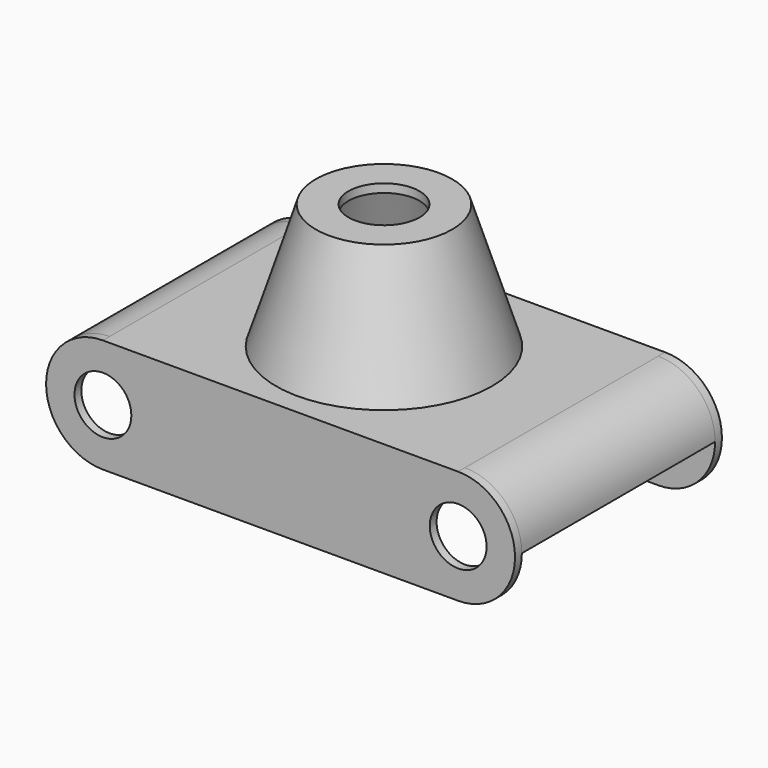
from build123d import *

# Parameters (mm, degrees)
F0_W      = 125
F0_H      = 40
F1_DEPTH  = 3
F2_W      = 125
F2_H      = 3
F3_DEPTH  = 85
F4_W      = 125
F4_H      = 40
F5_DEPTH  = 3
F6_R      = 35
F7_DEPTH  = 25
F10_R     = 24
F8_R      = 38
F12_R     = 12.5
F13_DEPTH = 70.6
F16_R     = 18
F14_R     = 35
F18_W     = 70
F18_H     = 3
F19_DEPTH = 85
F20_W     = 60
F20_H     = 60
F21_DEPTH = 15.5
F22_W     = 3
F22_H     = 85
F23_DEPTH = 26
F24_R     = 5
F25_DEPTH = 9.5
F26_R     = 10
F27_DEPTH = 25


with BuildPart() as f1:
    # F0 (on Front) → F1 (new body)
    with BuildSketch(Plane.XZ):
        Rectangle(F0_W, F0_H)
        with BuildLine():
            ThreePointArc((62.5, -20), (82.5, 0), (62.5, 20))
            Line((62.5, 20), (62.5, -20))
        make_face()
        with BuildLine():
            Line((-62.5, -20), (-62.5, 20))
            ThreePointArc((-62.5, 20), (-82.5, 0), (-62.5, -20))
        make_face()
    extrude(amount=F1_DEPTH)

    # F2 (on face) → F3 (join)
    with BuildSketch(Plane.XZ.offset(3)):
        with Locations((0, 18.5)):
            Rectangle(F2_W, F2_H)
        with BuildLine():
            Line((-62.5, 17), (-62.5, 20))
            ThreePointArc((-62.5, 20), (-76.6421356237, 14.1421356237), (-82.5, 0))
            Line((-82.5, 0), (-79.5, 0))
            ThreePointArc((-79.5, 0), (-74.5208152802, 12.0208152802), (-62.5, 17))
        make_face()
        with BuildLine():
            ThreePointArc((82.5, 0), (76.6421356237, 14.1421356237), (62.5, 20))
            Line((62.5, 20), (62.5, 17))
            ThreePointArc((62.5, 17), (74.5208152802, 12.0208152802), (79.5, 0))
            Line((79.5, 0), (82.5, 0))
        make_face()
    extrude(amount=F3_DEPTH)

    # F4 (on face) → F5 (join)
    with BuildSketch(Plane.XZ.offset(88)):
        Rectangle(F4_W, F4_H)
        with BuildLine():
            Line((-62.5, -20), (-62.5, 20))
            ThreePointArc((-62.5, 20), (-82.5, 0), (-62.5, -20))
        make_face()
        with BuildLine():
            ThreePointArc((62.5, -20), (82.5, 0), (62.5, 20))
            Line((62.5, 20), (62.5, -20))
        make_face()
    extrude(amount=F5_DEPTH)

    # F6 (on face) → F7 (cut)
    with BuildSketch(Plane(origin=(0, 0, 17), x_dir=(1, 0, 0), z_dir=(0, 0, -1))):
        with Locations((0, 45.5)):
            Circle(F6_R)
    extrude(amount=-F7_DEPTH, mode=Mode.SUBTRACT)

    # F10 (on offset) → F11 section 0
    with BuildSketch(Plane.XY.offset(64)):
        with Locations((0, -45.5)):
            Circle(F10_R)
    # F8 (on face) → F11 section 1
    with BuildSketch(Plane.XY.offset(20)):
        with Locations((0, -45.5)):
            Circle(F8_R)
    loft()

    # F12 (on face) → F13 (cut)
    with BuildSketch(Plane.XY.offset(64)):
        with Locations((0, -45.5)):
            Circle(F12_R)
    extrude(amount=-F13_DEPTH, mode=Mode.SUBTRACT)

    # F16 (on offset) → F17 section 0
    with BuildSketch(Plane.XY.offset(61)):
        with Locations((0, -45.5)):
            Circle(F16_R)
    # F14 (on face) → F17 section 1
    with BuildSketch(Plane.XY.offset(20)):
        with Locations((0, -45.5)):
            Circle(F14_R)
    loft(mode=Mode.SUBTRACT)

    # F18 (on face) → F19 (join)
    with BuildSketch(Plane.XZ.offset(3)):
        with Locations((0, -4.5)):
            Rectangle(F18_W, F18_H)
    extrude(amount=F19_DEPTH)

    # F20 (on face) → F21 (cut)
    with BuildSketch(Plane(origin=(0, 0, -6), x_dir=(1, 0, 0), z_dir=(0, 0, -1))):
        with Locations((0, 45.5)):
            Rectangle(F20_W, F20_H)
    extrude(amount=-F21_DEPTH, mode=Mode.SUBTRACT)

    # F22 (on face) → F23 (join)
    with BuildSketch(Plane(origin=(0, 0, -6), x_dir=(1, 0, 0), z_dir=(0, 0, -1))):
        with Locations((-33.5, 45.5)):
            Rectangle(F22_W, F22_H)
        with Locations((33.5, 45.5)):
            Rectangle(F22_W, F22_H)
    extrude(amount=-F23_DEPTH)

    # F24 (on face) → F25 (join)
    with BuildSketch(Plane.XZ.offset(3)):
        with Locations((-62.5, 0)):
            Circle(F24_R)
        with Locations((62.5, 0)):
            Circle(F24_R)
    extrude(amount=F25_DEPTH)

    # F26 (on face) → F27 (cut)
    with BuildSketch(Plane.XZ.offset(91)):
        with Locations((-62.5, 0)):
            Circle(F26_R)
        with Locations((62.5, 0)):
            Circle(F26_R)
    extrude(amount=-F27_DEPTH, mode=Mode.SUBTRACT)


solid = f1.part
